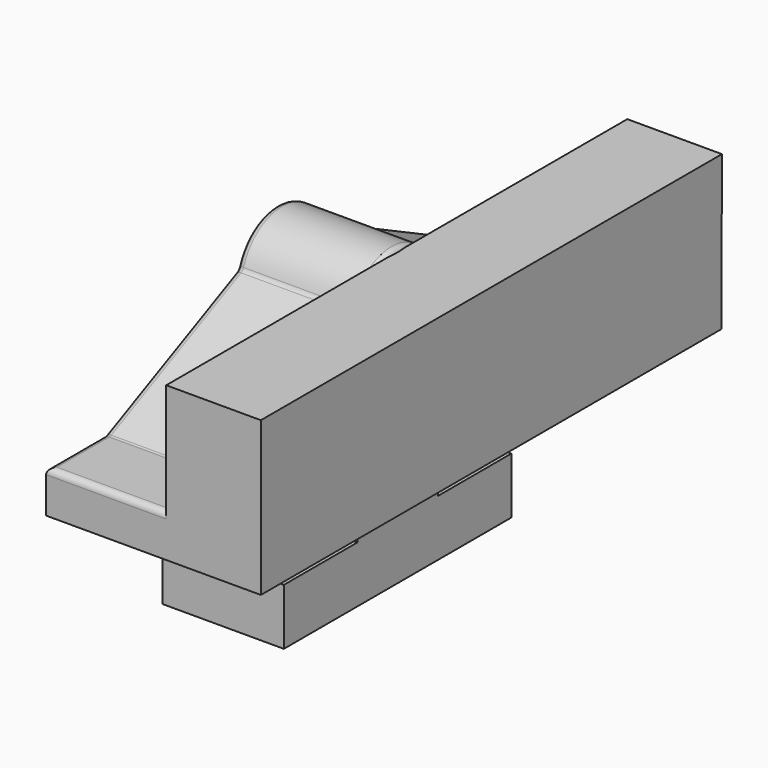
from build123d import *

# Parameters (mm, degrees)
F0_R     = 6.604
F1_DEPTH = 25.4
F2_R     = 1.27
F5_DEPTH = 19.812


with BuildPart() as f1:
    # F0 (on Right) → F1 (new body)
    with BuildSketch(Plane.YZ):
        with BuildLine():
            Line((-44.9730095259, 19.512440572), (-60.2130095259, 19.512440572))
            Line((-60.2130095259, 19.512440572), (-60.2130095259, 10.6997340918))
            Line((-60.2130095259, 10.6997340918), (-10.535961017, 10.6997340918))
            Line((-10.535961017, 10.6997340918), (-10.535961017, -6.1869150959))
            Line((-10.535961017, -6.1869150959), (-29.7518018633, -6.1869150959))
            Line((-29.7518018633, -6.1869150959), (-29.7518018633, -17.9784540087))
            Line((-29.7518018633, -17.9784540087), (0, -17.9784540087))
            Line((0, -17.9784540087), (29.7518018633, -17.9784540087))
            Line((29.7518018633, -17.9784540087), (29.7518018633, -6.1869150959))
            Line((29.7518018633, -6.1869150959), (10.535961017, -6.1869150959))
            Line((10.535961017, -6.1869150959), (10.535961017, 10.6997340918))
            Line((10.535961017, 10.6997340918), (60.2130095259, 10.6997340918))
            Line((60.2130095259, 10.6997340918), (60.2130095259, 19.512440572))
            Line((60.2130095259, 19.512440572), (44.9730095259, 19.512440572))
            Line((44.9730095259, 19.512440572), (10.1265067253, 36.4959567288))
            ThreePointArc((10.1265067253, 36.4959567288), (10.587250916, 34.7297929897), (10.7423247602, 32.911119939))
            ThreePointArc((10.7423247602, 32.911119939), (-1.5527814637, 22.281940137), (-10.2926816094, 35.9846130792))
            Line((-10.2926816094, 35.9846130792), (-44.9730095259, 19.512440572))
        make_face()
        with BuildLine():
            ThreePointArc((10.1265067253, 36.4959567288), (-0.2686387048, 43.6497954823), (-10.2926816094, 35.9846130792))
            ThreePointArc((-10.2926816094, 35.9846130792), (-1.5527814637, 22.281940137), (10.7423247602, 32.911119939))
            ThreePointArc((10.7423247602, 32.911119939), (10.587250916, 34.7297929897), (10.1265067253, 36.4959567288))
        make_face()
        with Locations((0.0002825399, 32.911119939)):
            Circle(F0_R, mode=Mode.SUBTRACT)
    extrude(amount=F1_DEPTH)

    # F2
    f2_edges = [f1.edges().sort_by_distance(p)[0] for p in [
        (25.4, -27.632846, 27.748527),
        (25.4, -0.268639, 43.649795),
        (25.4, 27.549758, 28.004199),
        (25.4, 52.59301, 19.512441),
        (25.4, -52.59301, 19.512441),
        (12.7, -44.97301, 19.512441),
        (12.7, -60.21301, 19.512441),
        (0, -52.59301, 19.512441),
        (0, -27.632846, 27.748527),
        (0, -0.268639, 43.649795),
        (0, 27.549758, 28.004199),
        (0, 52.59301, 19.512441),
        (12.7, 60.21301, 19.512441),
        (12.7, 44.97301, 19.512441),
        (12.7, -10.292682, 35.984613),
        (12.7, 10.126507, 36.495957),
    ]]
    fillet(f2_edges, radius=F2_R)

    # F4 (on offset) → F5 (join)
    with BuildSketch(Plane.YZ.offset(44.958)):
        Polygon((-60.2130095259, 42.8991168737), (-60.2130095259, 18.242440572), (-60.2130095259, 10.6997340918), (60.2849709341, 10.6997340918), (60.4153525641, 42.8991168737), align=None)
    extrude(amount=-F5_DEPTH)


solid = f1.part
